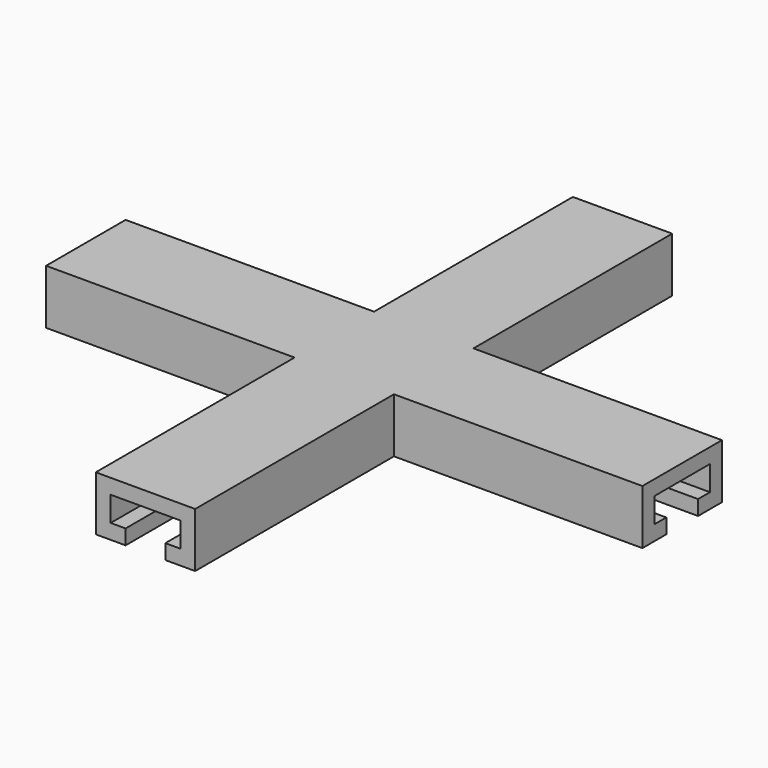
from build123d import *

# Parameters (mm, degrees)
F1_DEPTH = 3
F2_DEPTH = 5
F4_DEPTH = 3


with BuildPart() as f1:
    # F0 (on Top) → F1 (new body)
    with BuildSketch(Plane.XY):
        Polygon((7, -60), (10, -60), (10, -10), (60, -10), (60, -7), (7, -7), align=None)
        Polygon((-7, -60), (7, -60), (7, -7), (60, -7), (60, 7), (7, 7), (7, 60), (-7, 60), (-7, 7), (-60, 7), (-60, -7), (-7, -7), align=None)
        Polygon((-10, -60), (-7, -60), (-7, -7), (-60, -7), (-60, -10), (-10, -10), align=None)
        Polygon((7, 7), (60, 7), (60, 10), (10, 10), (10, 60), (7, 60), align=None)
        Polygon((-60, 10), (-60, 7), (-7, 7), (-7, 60), (-10, 60), (-10, 10), align=None)
    extrude(amount=F1_DEPTH)

    # F0 (on Top) → F2 (join)
    with BuildSketch(Plane.XY):
        Polygon((7, 7), (60, 7), (60, 10), (10, 10), (10, 60), (7, 60), align=None)
        Polygon((-60, 10), (-60, 7), (-7, 7), (-7, 60), (-10, 60), (-10, 10), align=None)
        Polygon((-10, -60), (-7, -60), (-7, -7), (-60, -7), (-60, -10), (-10, -10), align=None)
        Polygon((7, -60), (10, -60), (10, -10), (60, -10), (60, -7), (7, -7), align=None)
    extrude(amount=-F2_DEPTH)

    # F3 (on face) → F4 (join)
    with BuildSketch(Plane(origin=(0, 0, -5), x_dir=(1, 0, 0), z_dir=(0, 0, -1))):
        Polygon((-4, 60), (-10, 60), (-10, 10), (-60, 10), (-60, 4), (-10, 4), (-4, 4), (-4, 10), align=None)
        Polygon((10, 10), (10, 60), (4, 60), (4, 10), (4, 4), (10, 4), (60, 4), (60, 10), align=None)
        Polygon((60, -4), (10, -4), (4, -4), (4, -10), (4, -60), (10, -60), (10, -10), (60, -10), align=None)
        Polygon((-10, -10), (-10, -60), (-4, -60), (-4, -10), (-4, -4), (-10, -4), (-60, -4), (-60, -10), align=None)
    extrude(amount=F4_DEPTH)


solid = f1.part
